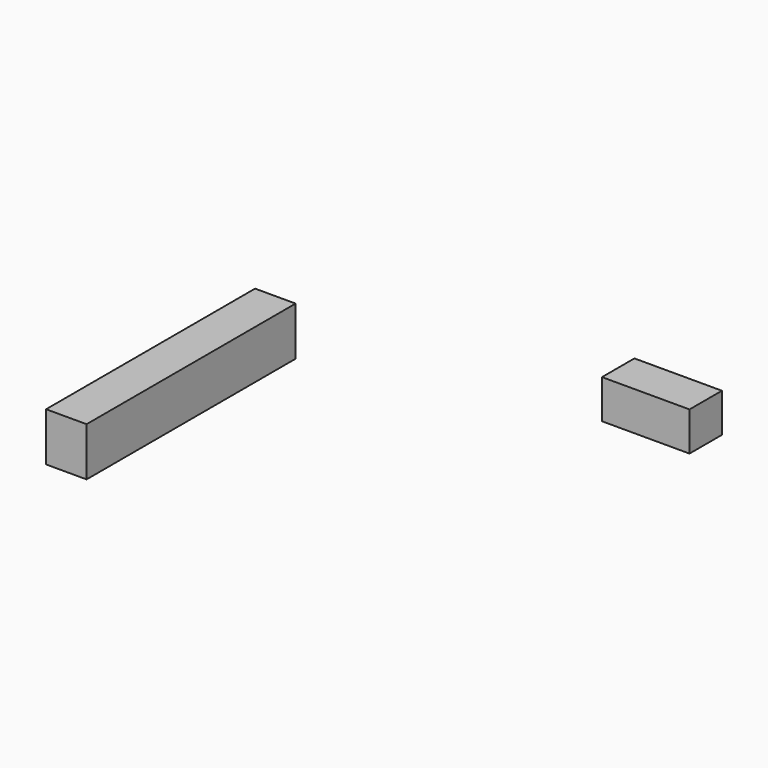
from build123d import *

# Parameters (mm, degrees)
F0_W     = 32.759979
F0_H     = 6.096
F1_DEPTH = 5.08
F2_W     = 10.972798
F2_H     = 4.8768
F3_DEPTH = 5.08


with BuildPart() as f1:
    # F0 (on Right) → F1 (new body)
    with BuildSketch(Plane.YZ):
        with Locations((-16.595512, 17.9832)):
            Rectangle(F0_W, F0_H)
    extrude(amount=F1_DEPTH)


with BuildPart() as f3:
    # F2 (on Front) → F3 (new body)
    with BuildSketch(Plane.XZ):
        with Locations((52.882802, 26.2128)):
            Rectangle(F2_W, F2_H)
    extrude(amount=F3_DEPTH)


solid = Compound([f1.part, f3.part])
